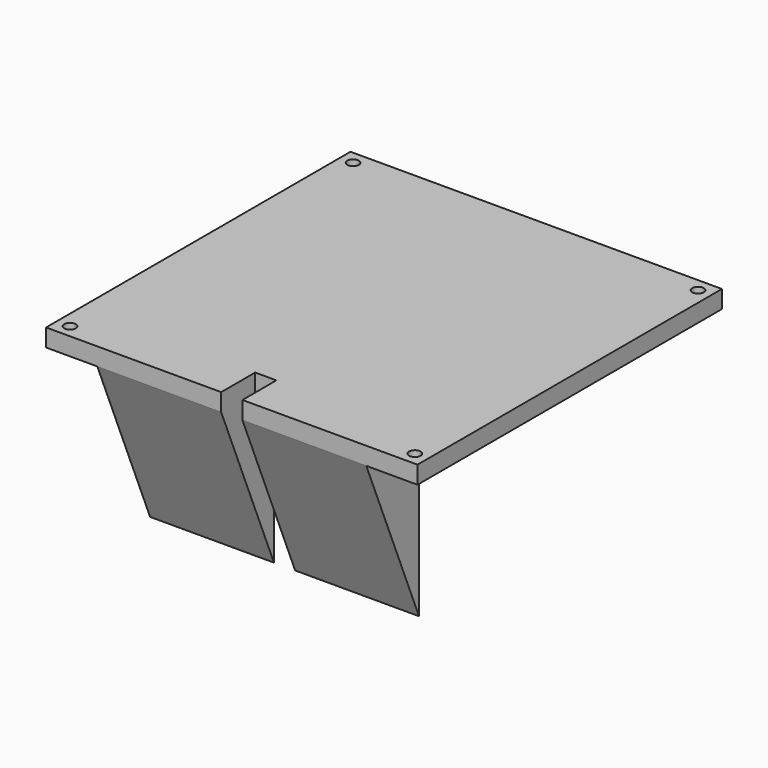
from build123d import *

# Parameters (mm, degrees)
F0_R     = 1.63195
F1_DEPTH = 5
F2_W     = 35
F2_H     = 18.64
F3_DEPTH = 50
F5_DEPTH = 90.481


with BuildPart() as f1:
    # F0 (on Top) → F1 (new body)
    with BuildSketch(Plane.XY):
        Polygon((-52.48, 53.76), (-52.48, -53.76), (-3, -53.76), (-3, -41.76), (3, -41.76), (3, -53.76), (52.48, -53.76), (52.48, 53.76), align=None)
        with Locations((-48.73, -50.01)):
            Circle(F0_R, mode=Mode.SUBTRACT)
        with Locations((48.73, -50.01)):
            Circle(F0_R, mode=Mode.SUBTRACT)
        with Locations((-48.73, 50.01)):
            Circle(F0_R, mode=Mode.SUBTRACT)
        with Locations((48.73, 50.01)):
            Circle(F0_R, mode=Mode.SUBTRACT)
    extrude(amount=F1_DEPTH)

    # F2 (on face) → F3 (join)
    with BuildSketch(Plane.XY.offset(5)):
        with Locations((20.5, -44.44)):
            Rectangle(F2_W, F2_H)
        with Locations((-20.5, -44.44)):
            Rectangle(F2_W, F2_H)
    extrude(amount=-F3_DEPTH)

    # F4 (on face) → F5 (cut, through all)
    with BuildSketch(Plane(origin=(-38, 0, 0), x_dir=(0, -1, 0), z_dir=(-1, 0, 0))):
        Polygon((53.76, -45), (53.76, 0), (35.1203896932, -45), align=None)
    extrude(amount=-F5_DEPTH, mode=Mode.SUBTRACT)


solid = f1.part
